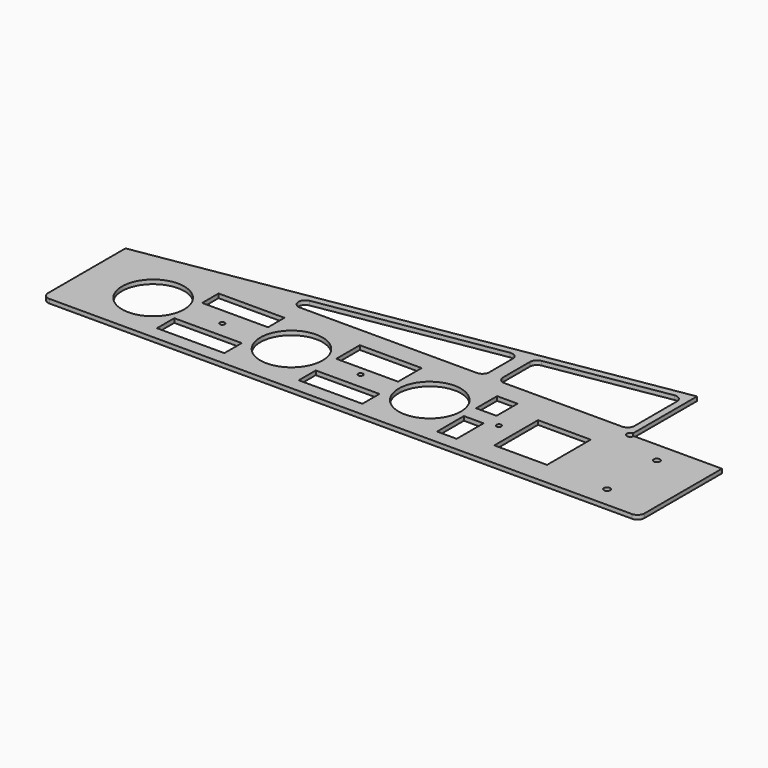
from build123d import *

# Parameters (mm, degrees)
F0_R     = 2.25
F0_W     = 46.010702
F0_H     = 15.40207
F0_R_2   = 22.5
F0_R_3   = 1.75
F0_W_2   = 47.632419
F0_H_2   = 14.842443
F1_DEPTH = 3


with BuildPart() as f1:
    # F0 (on Top) → F1 (new body)
    with BuildSketch(Plane.XY):
        with BuildLine():
            Line((365, 135.2), (0, 75))
            Line((0, 75), (362.5, 75))
            ThreePointArc((362.5, 75), (363.232233, 76.767767), (365, 77.5))
            Line((365, 77.5), (365, 135.2))
        make_face()
        with BuildLine():
            Line((249.999995, 79.999998), (122.081561, 79.999998))
            ThreePointArc((122.081561, 79.999998), (117.098251, 84.591803), (121.267896, 89.933349))
            Line((121.267896, 89.933349), (249.18633, 111.031129))
            ThreePointArc((249.18633, 111.031129), (253.23509, 109.910148), (254.999995, 106.097778))
            Line((254.999995, 106.097778), (254.999995, 84.999998))
            ThreePointArc((254.999995, 84.999998), (253.535529, 81.464464), (249.999995, 79.999998))
        make_face(mode=Mode.SUBTRACT)
        with BuildLine():
            ThreePointArc((354.186335, 128.348938), (358.235095, 127.227957), (360, 123.415587))
            Line((360, 123.415587), (360, 84.999998))
            ThreePointArc((360, 84.999998), (358.535534, 81.464464), (355, 79.999998))
            Line((355, 79.999998), (270, 79.999998))
            ThreePointArc((270, 79.999998), (266.464466, 81.464464), (265, 84.999998))
            Line((265, 84.999998), (265, 109.396409))
            ThreePointArc((265, 109.396409), (266.18763, 112.631504), (269.186335, 114.32976))
            Line((269.186335, 114.32976), (354.186335, 128.348938))
        make_face(mode=Mode.SUBTRACT)
        with BuildLine():
            ThreePointArc((0, 5), (1.464466, 1.464466), (5, 0))
            Line((5, 0), (426.2, 0))
            ThreePointArc((426.2, 0), (429.735534, 1.464466), (431.2, 5))
            Line((431.2, 5), (431.2, 75))
            Line((431.2, 75), (367.5, 75))
            ThreePointArc((367.5, 75), (365, 72.5), (362.5, 75))
            Line((362.5, 75), (0, 75))
            Line((0, 75), (0, 5))
        make_face()
        with BuildLine():
            ThreePointArc((15, 10), (11.464466, 11.464466), (10, 15))
            Line((10, 15), (10, 60))
            ThreePointArc((10, 60), (11.464466, 63.535534), (15, 65))
            Line((15, 65), (177.248031, 65))
            Line((177.248031, 65), (177.248031, 65.195423))
            Line((177.248031, 65.195423), (221.969068, 65.195423))
            Line((221.969068, 65.195423), (221.969068, 65))
            Line((221.969068, 65), (276.665121, 65))
            Line((276.665121, 65), (291.45667, 65))
            Line((291.45667, 65), (346.2, 65))
            ThreePointArc((346.2, 65), (349.735534, 63.535534), (351.2, 60))
            Line((351.2, 60), (351.2, 56.482751))
            Line((351.2, 56.482751), (351.2, 16.981905))
            Line((351.2, 16.981905), (351.2, 15))
            ThreePointArc((351.2, 15), (349.735534, 11.464466), (346.2, 10))
            Line((346.2, 10), (291.45667, 10))
            Line((291.45667, 10), (277.253091, 10))
            Line((277.253091, 10), (123.603888, 10))
            Line((123.603888, 10), (123.603888, 9.868093))
            Line((123.603888, 9.868093), (74.839681, 9.868093))
            Line((74.839681, 9.868093), (74.839681, 10))
            Line((74.839681, 10), (15, 10))
        make_face(mode=Mode.SUBTRACT)
        with Locations((396.2, 15)):
            Circle(F0_R, mode=Mode.SUBTRACT)
        with Locations((396.2, 60)):
            Circle(F0_R, mode=Mode.SUBTRACT)
        with BuildLine():
            Line((10, 60), (10, 15))
            ThreePointArc((10, 15), (11.464466, 11.464466), (15, 10))
            Line((15, 10), (74.839681, 10))
            Line((74.839681, 10), (74.839681, 25.567258))
            Line((74.839681, 25.567258), (123.603888, 25.567258))
            Line((123.603888, 25.567258), (123.603888, 10))
            Line((123.603888, 10), (277.253091, 10))
            Line((277.253091, 10), (277.253091, 34.278966))
            Line((277.253091, 34.278966), (291.45667, 34.278966))
            Line((291.45667, 34.278966), (291.45667, 10))
            Line((291.45667, 10), (346.2, 10))
            ThreePointArc((346.2, 10), (349.735534, 11.464466), (351.2, 15))
            Line((351.2, 15), (351.2, 16.981905))
            Line((351.2, 16.981905), (313.055903, 16.981905))
            Line((313.055903, 16.981905), (313.055903, 56.482751))
            Line((313.055903, 56.482751), (351.2, 56.482751))
            Line((351.2, 56.482751), (351.2, 60))
            ThreePointArc((351.2, 60), (349.735534, 63.535534), (346.2, 65))
            Line((346.2, 65), (291.45667, 65))
            Line((291.45667, 65), (291.45667, 46.009973))
            Line((291.45667, 46.009973), (276.665121, 46.009973))
            Line((276.665121, 46.009973), (276.665121, 65))
            Line((276.665121, 65), (221.969068, 65))
            Line((221.969068, 65), (221.969068, 43.890707))
            Line((221.969068, 43.890707), (177.248031, 43.890707))
            Line((177.248031, 43.890707), (177.248031, 65))
            Line((177.248031, 65), (15, 65))
            ThreePointArc((15, 65), (11.464466, 63.535534), (10, 60))
        make_face()
        with Locations((200.134024, 17.866223)):
            Rectangle(F0_W, F0_H, mode=Mode.SUBTRACT)
        with Locations((50, 37.5)):
            Circle(F0_R_2, mode=Mode.SUBTRACT)
        with Locations((100, 37.5)):
            Circle(F0_R_3, mode=Mode.SUBTRACT)
        with Locations((99.295299, 57.364914)):
            Rectangle(F0_W_2, F0_H_2, mode=Mode.SUBTRACT)
        with Locations((150, 37.5)):
            Circle(F0_R_2, mode=Mode.SUBTRACT)
        with Locations((200, 37.5)):
            Circle(F0_R_3, mode=Mode.SUBTRACT)
        with Locations((250, 37.5)):
            Circle(F0_R_2, mode=Mode.SUBTRACT)
        with Locations((300, 37.5)):
            Circle(F0_R_3, mode=Mode.SUBTRACT)
    extrude(amount=F1_DEPTH)


solid = f1.part
